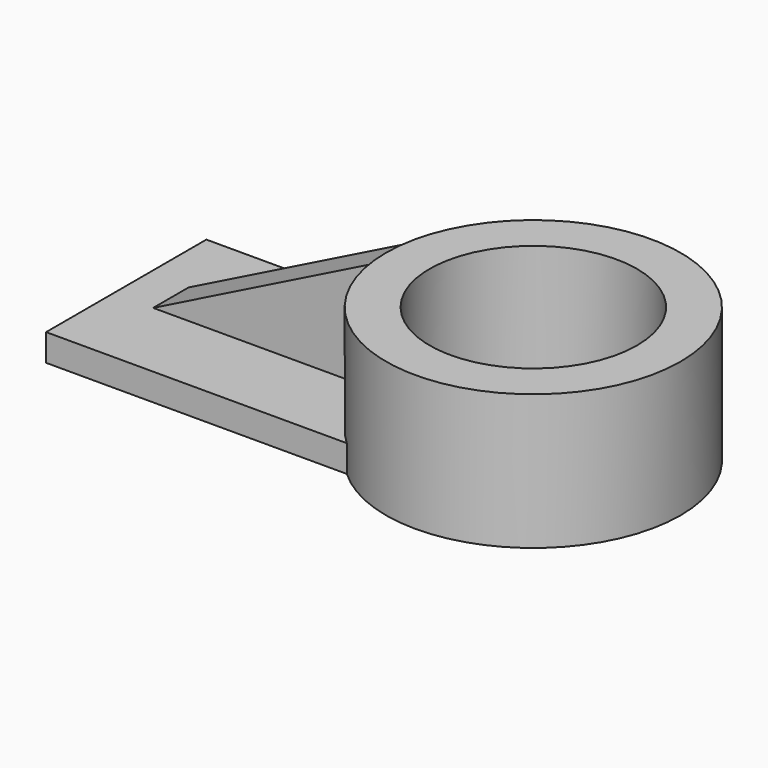
from build123d import *

# Parameters (mm, degrees)
F0_R      = 34.5568436117
F0_R_2    = 24.3288327677
F1_DEPTH  = 50.8
F2_W      = 74.3876788765
F2_H      = 46.9968635589
F3_DEPTH  = 25.4
F4_DEPTH  = 19.05
F5_DEPTH  = 19.05
F6_DEPTH  = 50.8
F7_W      = 10.3796771728
F7_H      = 25.9491894394
F8_DEPTH  = 50.8
F10_DEPTH = 76.2


with BuildPart() as f1:
    # F0 (on Top) → F1 (new body)
    with BuildSketch(Plane.XY):
        with Locations((33.8781066239, 0)):
            Circle(F0_R)
        with Locations((33.8781066239, 0)):
            Circle(F0_R_2, mode=Mode.SUBTRACT)
    extrude(amount=F1_DEPTH)

    # F2 (on Top) → F3 (join)
    with BuildSketch(Plane.XY):
        with Locations((-22.9217847809, -1.8741087988)):
            Rectangle(F2_W, F2_H)
    extrude(amount=F3_DEPTH)

    # F4 (cut): a face of the model
    f4_faces = [f1.faces().sort_by_distance(p)[0] for p in [
        (0.2986781504, 0, 50.8),
    ]]
    extrude(f4_faces, amount=-F4_DEPTH, mode=Mode.SUBTRACT)

    # F5 (cut): a face of the model
    f5_faces = [f1.faces().sort_by_distance(p)[0] for p in [
        (-28.8538449791, -2.0648821255, 25.4),
    ]]
    extrude(f5_faces, amount=-F5_DEPTH, mode=Mode.SUBTRACT)

    # F6 (cut): a face of the model
    f6_faces = [f1.faces().sort_by_distance(p)[0] for p in [
        (12.3662875308, 0, 25.4),
    ]]
    extrude(f6_faces, amount=-F6_DEPTH, mode=Mode.SUBTRACT)

    # F7 (on Right) → F8 (join)
    with BuildSketch(Plane.YZ):
        with Locations((-0.4324859474, 18.7410814688)):
            Rectangle(F7_W, F7_H)
    extrude(amount=-F8_DEPTH)

    # F9 (on face) → F10 (cut)
    with BuildSketch(Plane.XZ.offset(5.6223245338)):
        Polygon((-50.8, 6.35), (-0.2182994512, 31.7156761885), (-50.8, 31.7156761885), align=None)
    extrude(amount=-F10_DEPTH, mode=Mode.SUBTRACT)


solid = f1.part
